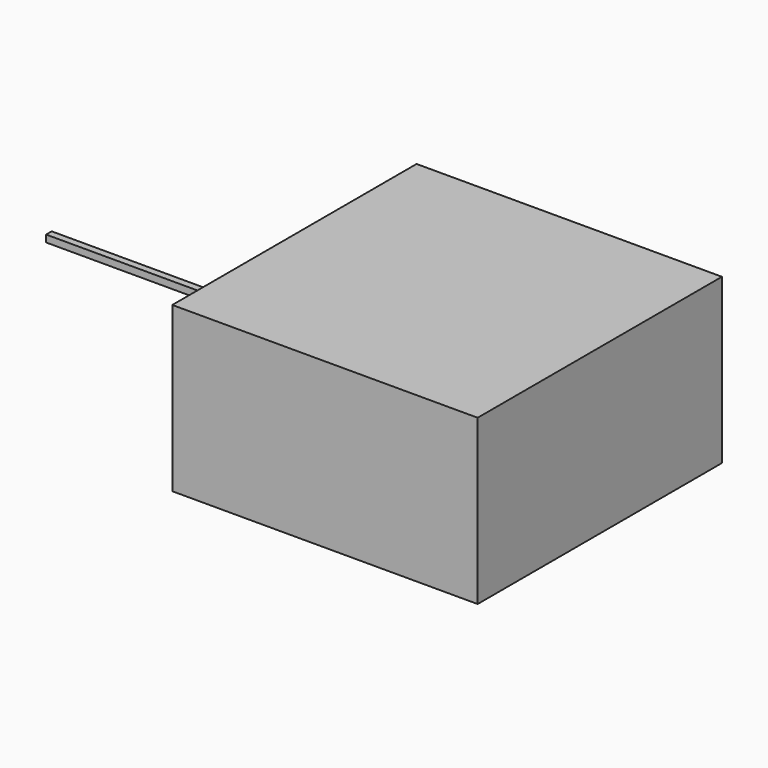
from build123d import *

# Parameters (mm, degrees)
F1_DEPTH = 5.969
F2_DEPTH = 0.254


with BuildPart() as f1:
    # F0 (on Top) → F1 (new body, symmetric)
    with BuildSketch(Plane.XY):
        Polygon((11.1125, 11.1125), (-11.1125, 11.1125), (-11.1125, 0.254), (-11.1125, -0.254), (-11.1125, -11.1125), (11.1125, -11.1125), align=None)
    extrude(amount=F1_DEPTH, both=True)

    # F0 (on Top) → F2 (join, symmetric)
    with BuildSketch(Plane.XY):
        Polygon((-11.1125, -0.254), (-11.1125, 0.254), (-28.986987, 0.254), (-28.986987, 0), (-28.986987, -0.254), align=None)
    extrude(amount=F2_DEPTH, both=True)


solid = f1.part
